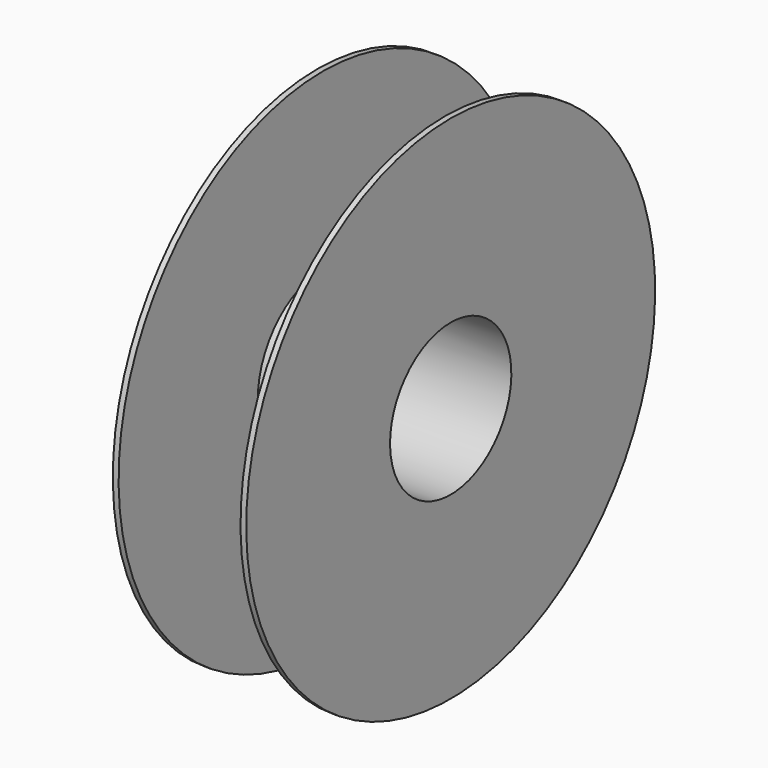
from build123d import *

# Parameters (mm, degrees)
F0_W   = 2.54
F0_H   = 2.54
F0_H_2 = 76.962


with BuildPart() as f1:
    # F0 (on Front) → F1 (revolve)
    with BuildSketch(Plane.XZ):
        Polygon((-26.96, 33.528), (0, 33.528), (26.96, 33.528), (26.96, 36.068), (0, 36.068), (-26.96, 36.068), align=None)
        with Locations((28.23, 34.798)):
            Rectangle(F0_W, F0_H)
        with Locations((-28.23, 34.798)):
            Rectangle(F0_W, F0_H)
        with Locations((28.23, 74.549)):
            Rectangle(F0_W, F0_H_2)
        with Locations((-28.23, 74.549)):
            Rectangle(F0_W, F0_H_2)
    revolve(axis=Axis((13.856179, 0, 0), (1, 0, 0)))


solid = f1.part
